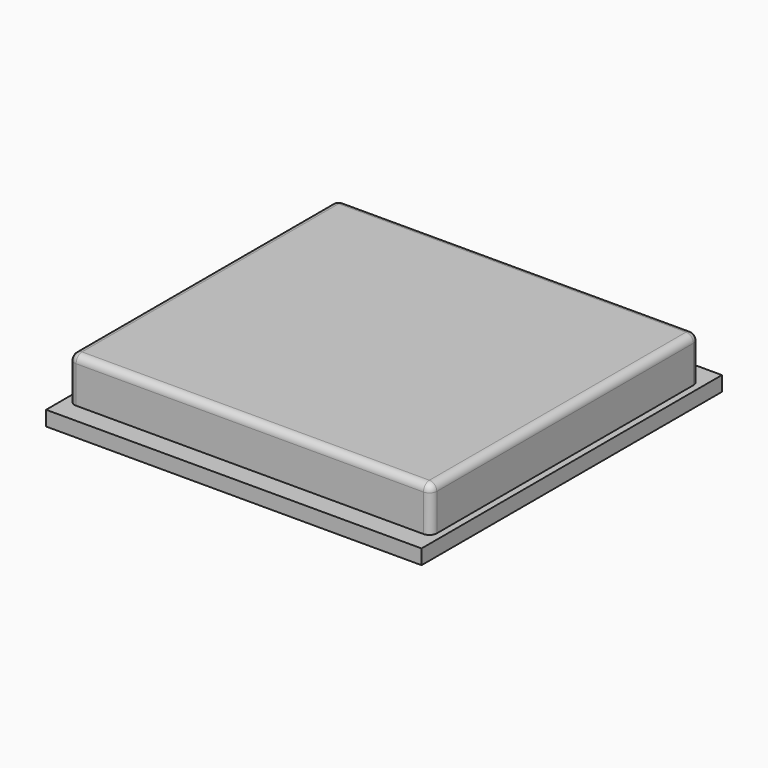
from build123d import *

# Parameters (mm, degrees)
F0_W     = 25.4
F0_H     = 25.4
F1_DEPTH = 1
F2_W     = 24.500586
F2_H     = 22.695856
F3_DEPTH = 3
F4_R     = 0.5


with BuildPart() as f1:
    # F0 (on Top) → F1 (new body)
    with BuildSketch(Plane.XY):
        Rectangle(F0_W, F0_H)
    extrude(amount=F1_DEPTH)


with BuildPart() as f3:
    # F2 (on face) → F3 (new body)
    with BuildSketch(Plane.XY.offset(1)):
        Rectangle(F2_W, F2_H)
    extrude(amount=F3_DEPTH)

    # F4
    f4_edges = [f3.edges().sort_by_distance(p)[0] for p in [
        (0, -11.347928, 4),
        (12.250293, 0, 4),
        (0, 11.347928, 4),
        (-12.250293, 0, 4),
        (12.250293, -11.347928, 2.5),
        (-12.250293, -11.347928, 2.5),
        (-12.250293, 11.347928, 2.5),
        (12.250293, 11.347928, 2.5),
    ]]
    fillet(f4_edges, radius=F4_R)


solid = Compound([f1.part, f3.part])
